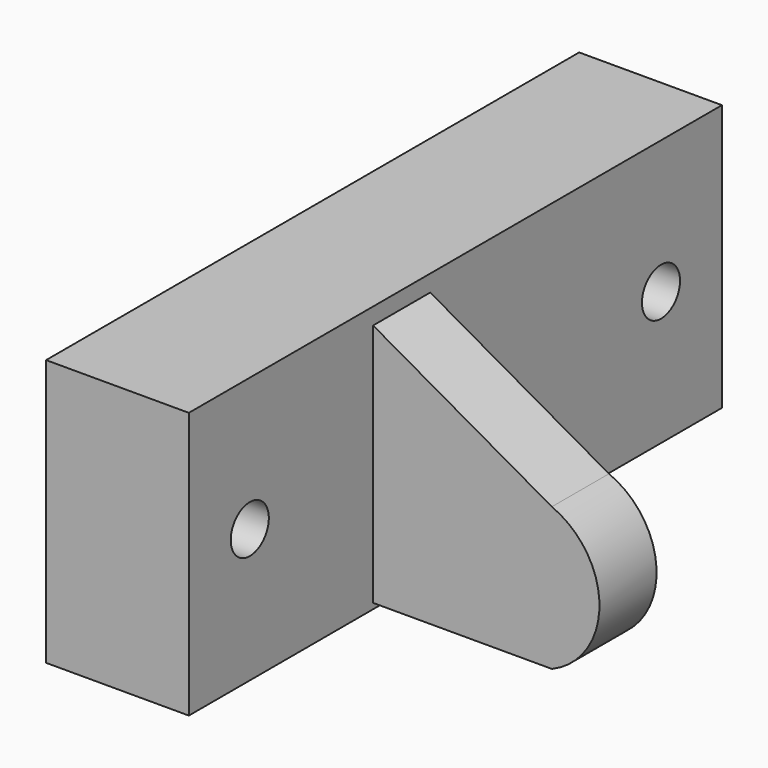
from build123d import *

# Parameters (mm, degrees)
F0_W     = 140
F0_H     = 56
F1_DEPTH = 30
F4_D     = 10
F5_D     = 10
F7_DEPTH = 15


with BuildPart() as f1:
    # F0 (on Right) → F1 (new body)
    with BuildSketch(Plane.YZ):
        with Locations((6.608495, -6.87645)):
            Rectangle(F0_W, F0_H)
    extrude(amount=F1_DEPTH)

    # F4 (through all)
    with Locations(Plane.YZ.offset(30)):
        with Locations((-47.391505, -6.87645)):
            Hole(F4_D / 2)

    # F5 (through all)
    with Locations(Plane.YZ.offset(30)):
        with Locations((60.608495, -6.87645)):
            Hole(F5_D / 2)

    # F6 (on Front) → F7 (join)
    with BuildSketch(Plane.XZ):
        Polygon((27.557567, 18.999426), (27.557567, -3.702652), (30.328274, -3.702652), (67.557567, -3.702652), align=None)
        Polygon((30.328274, -3.702652), (27.557567, -3.702652), (27.557567, -33.702652), (67.557567, -33.702652), (67.557567, -3.702652), align=None)
        with BuildLine():
            ThreePointArc((67.557567, -33.702652), (77.557567, -18.702652), (67.557567, -3.702652))
            Line((67.557567, -3.702652), (67.557567, -33.702652))
        make_face()
    extrude(amount=F7_DEPTH)


solid = f1.part
